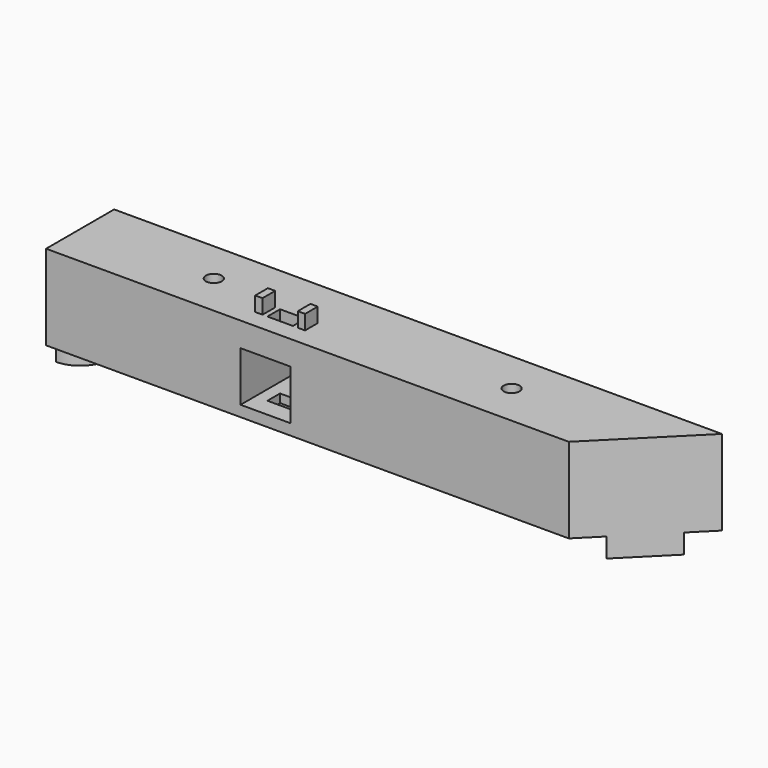
from build123d import *

# Parameters (mm, degrees)
F1_DEPTH  = 35
F3_D      = 6.5
F3_DEPTH  = 35
F3_TIP    = 1.9527970118
F4_D      = 6.5
F4_DEPTH  = 35
F4_TIP    = 1.9527970118
F6_W      = 24
F6_H      = 24
F7_DEPTH  = 25.5
F9_DEPTH  = 8
F11_DEPTH = 8
F12_W     = 20.5
F12_H     = 20.5
F13_DEPTH = 100
F14_W     = 10.5
F14_H     = 6.5
F15_DEPTH = 34
F16_W     = 3
F16_H     = 6.5
F17_DEPTH = 6


with BuildPart() as f1:
    # F0 (on Top) → F1 (new body)
    with BuildSketch(Plane.XY):
        Polygon((90, -17.5), (125, 17.5), (-125, 17.5), (-125, -17.5), align=None)
    extrude(amount=F1_DEPTH)

    # F3
    with Locations(Plane.XY.offset(35)):
        with Locations((-70, 0)):
            Hole(F3_D / 2, depth=F3_DEPTH)
            with Locations((0, 0, -(F3_DEPTH + F3_TIP / 2))):  # 118° drill point
                Cone(0, F3_D / 2, F3_TIP, mode=Mode.SUBTRACT)

    # F4
    with Locations(Plane.XY.offset(35)):
        with Locations((52.5, 0)):
            Hole(F4_D / 2, depth=F4_DEPTH)
            with Locations((0, 0, -(F4_DEPTH + F4_TIP / 2))):  # 118° drill point
                Cone(0, F4_D / 2, F4_TIP, mode=Mode.SUBTRACT)

    # F6 (on face) → F7 (cut)
    with BuildSketch(Plane(origin=(-125, 0, 0), x_dir=(0, -1, 0), z_dir=(-1, 0, 0))):
        with Locations((0, 17.5)):
            Rectangle(F6_W, F6_H)
    extrude(amount=-F7_DEPTH, mode=Mode.SUBTRACT)

    # F8 (on face) → F9 (join)
    with BuildSketch(Plane(origin=(0, 0, 0), x_dir=(1, 0, 0), z_dir=(0, 0, -1))):
        with BuildLine():
            Line((116.3388347648, -8.8388347648), (98.6611652352, 8.8388347648))
            ThreePointArc((98.6611652352, 8.8388347648), (98.6611652352, -8.8388347648), (116.3388347648, -8.8388347648))
        make_face()
    extrude(amount=F9_DEPTH)

    # F10 (on face) → F11 (join)
    with BuildSketch(Plane(origin=(0, 0, 0), x_dir=(1, 0, 0), z_dir=(0, 0, -1))):
        with BuildLine():
            ThreePointArc((-125, -12.5), (-116.1611652352, -8.8388347648), (-112.5, 0))
            ThreePointArc((-112.5, 0), (-116.1611652352, 8.8388347648), (-125, 12.5))
            Line((-125, 12.5), (-125, -12.5))
        make_face()
    extrude(amount=F11_DEPTH)

    # F12 (on face) → F13 (cut)
    with BuildSketch(Plane(origin=(0, 17.5, 0), x_dir=(-1, 0, 0), z_dir=(0, 1, 0))):
        with Locations((34.75, 14.75)):
            Rectangle(F12_W, F12_H)
    extrude(amount=-F13_DEPTH, mode=Mode.SUBTRACT)

    # F14 (on face) → F15 (cut)
    with BuildSketch(Plane.XY.offset(35)):
        with Locations((-34.7681139037, -6.6779768765)):
            Rectangle(F14_W, F14_H)
    extrude(amount=-F15_DEPTH, mode=Mode.SUBTRACT)

    # F16 (on face) → F17 (join)
    with BuildSketch(Plane.XY.offset(35)):
        with Locations((-43.5181139037, -6.6779768765)):
            Rectangle(F16_W, F16_H)
        with Locations((-26.0181139037, -6.6779768765)):
            Rectangle(F16_W, F16_H)
    extrude(amount=F17_DEPTH)


solid = f1.part
